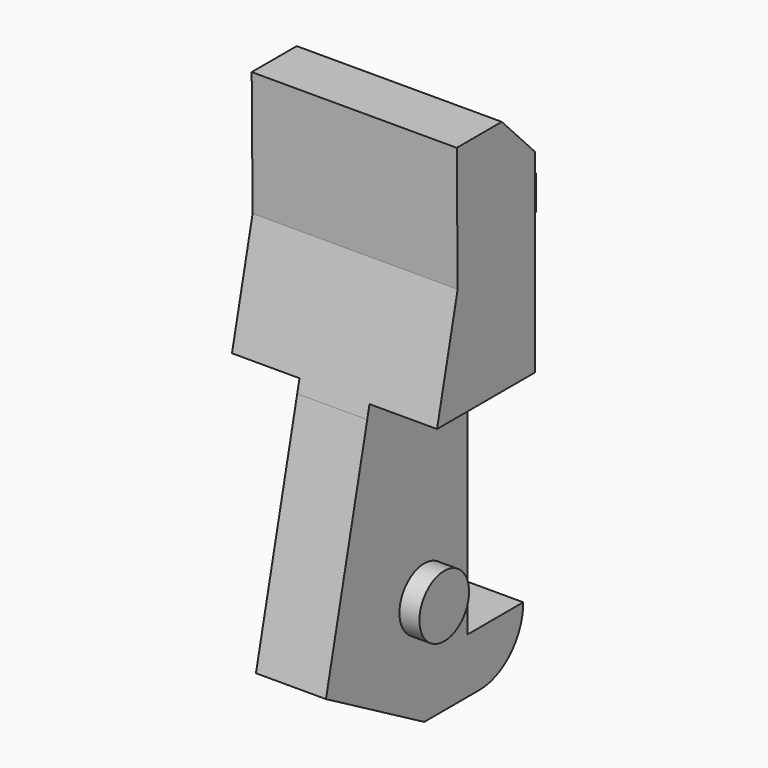
from build123d import *

# Parameters (mm, degrees)
PAD002_DEPTH    = 4.1
SKETCH017_W     = 2.7
SKETCH017_H     = 13
POCKET011_DEPTH = 10.7735
SKETCH018_W     = 1.55
SKETCH018_H     = 2
POCKET012_DEPTH = 27.001
SKETCH019_R     = 1.24
PAD003_DEPTH    = 2.2
CHAMFER001_SIZE = 0.4


with BuildPart() as body003:
    # Sketch016 (on DatumPlane) → Pad002 (new body, symmetric)
    with BuildSketch(Plane.YZ.offset(1.27)):
        with BuildLine():
            Line((0.91, 7.4), (3.71, 7.4))
            Line((3.71, 7.4), (3.71, 21.95))
            Line((3.71, 21.95), (3.01, 21.95))
            Line((3.01, 21.95), (3.01, 21.45))
            Line((1.71, 21.45), (3.01, 21.45))
            Line((1.71, 21.45), (1.71, 23.2))
            Line((1.71, 23.2), (5.36, 27))
            Line((7.61, 27), (5.36, 27))
            Line((7.61, 27), (7.564167, 22))
            Line((7.564167, 22), (8.71, 17))
            Line((8.71, 17), (10.7725, 8))
            Line((10.7725, 8), (5.86, 5.2))
            Line((5.86, 5.2), (3.11, 5.2))
            ThreePointArc((0.91, 7.4), (1.554365, 5.844365), (3.11, 5.2))
        make_face()
    extrude(amount=PAD002_DEPTH, both=True)

    # Sketch017 → Pocket011 (cut, through all)
    with BuildSketch(Plane.XZ):
        with Locations((4.02, 11)):
            Rectangle(SKETCH017_W, SKETCH017_H)
        with Locations((-1.48, 11)):
            Rectangle(SKETCH017_W, SKETCH017_H)
    extrude(amount=-POCKET011_DEPTH, mode=Mode.SUBTRACT)

    # Sketch018 → Pocket012 (cut, through all)
    with BuildSketch(Plane.XY):
        with Locations((-2.055, 2.71)):
            Rectangle(SKETCH018_W, SKETCH018_H)
        with Locations((4.595, 2.71)):
            Rectangle(SKETCH018_W, SKETCH018_H)
    extrude(amount=POCKET012_DEPTH, mode=Mode.SUBTRACT)

    # Sketch019 (on DatumPlane) → Pad003 (join, symmetric)
    with BuildSketch(Plane.YZ.offset(1.27)):
        with Locations((5.86, 9.54)):
            Circle(SKETCH019_R)
    extrude(amount=PAD003_DEPTH, both=True)

    # Chamfer001
    chamfer001_edges = [body003.edges().sort_by_distance(p)[0] for p in [
        (1.27, 1.71, 21.45),
        (1.27, 3.01, 21.45),
    ]]
    chamfer(chamfer001_edges, length=CHAMFER001_SIZE)


with BuildPart() as part_mirroring:
    # Part__Mirroring: instance of Body003
    add(body003.part.mirror(Plane(origin=(0, -8.89, 0), x_dir=(1, 0, 0), z_dir=(0, 1, 0))))


solid = part_mirroring.part
